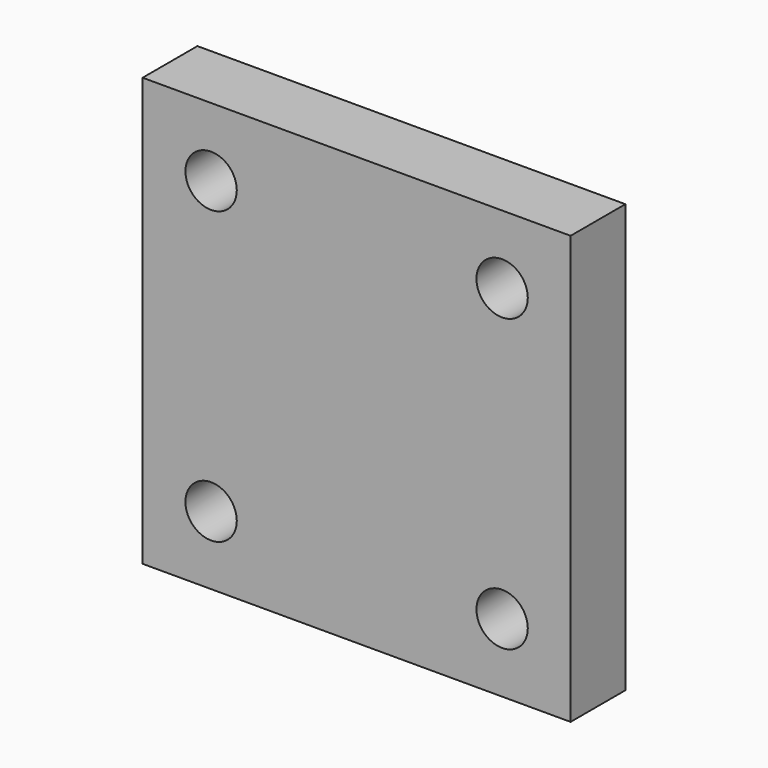
from build123d import *

# Parameters (mm, degrees)
F0_W     = 50
F0_H     = 50
F1_DEPTH = 8
F2_R     = 3
F3_DEPTH = 8.001


with BuildPart() as f1:
    # F0 (on Front) → F1 (new body)
    with BuildSketch(Plane.XZ):
        Rectangle(F0_W, F0_H)
    extrude(amount=-F1_DEPTH)

    # F2 (on face) → F3 (cut, through all)
    with BuildSketch(Plane.XZ):
        with Locations((17, 17)):
            Circle(F2_R)
        with Locations((-17, 17)):
            Circle(F2_R)
        with Locations((17, -17)):
            Circle(F2_R)
        with Locations((-17, -17)):
            Circle(F2_R)
    extrude(amount=-F3_DEPTH, mode=Mode.SUBTRACT)


solid = f1.part
